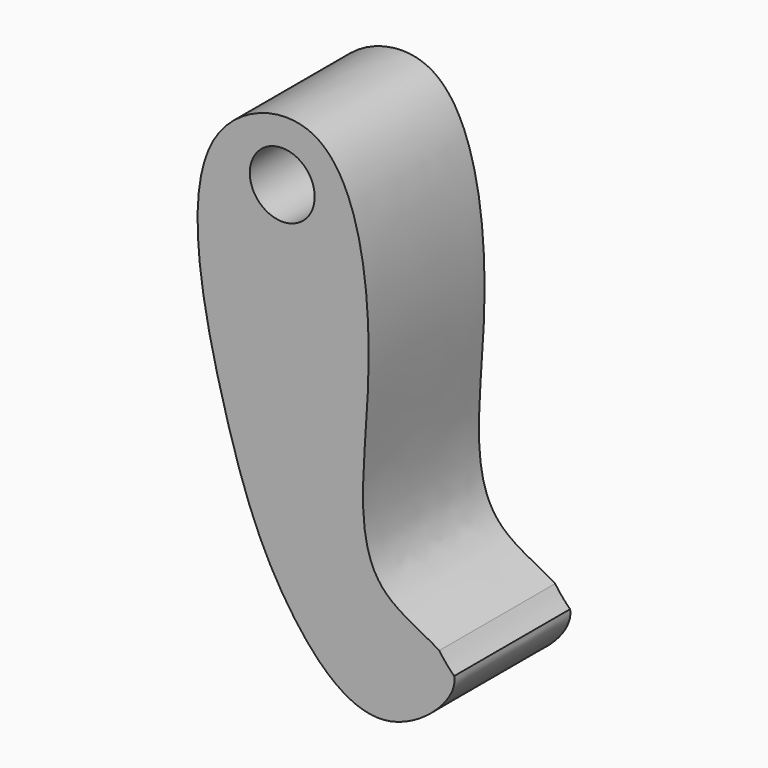
from build123d import *

# Parameters (mm, degrees)
F0_R     = 5.6887082479
F1_DEPTH = 25.4


with BuildPart() as f1:
    # F0 (on Front) → F1 (new body)
    with BuildSketch(Plane.XZ):
        with BuildLine():
            add(Edge.make_bspline(
                [(-13.0839215248, -13.7771912062), (-12.3637471248, -17.5316008011), (-26.4054747869, -30.7147757195), (-44.4811464496, -12.0997744428), (-53.7863967937, 12.6286486059), (-63.5044924073, 57.9441707835), (-31.7029808767, 68.408207312), (-25.5671035922, 27.849781756), (-32.5032799021, -3.8862060779), (-18.5417646628, -8.8477015901), (-15.7050160836, -10.6935714246)],
                knots=[0, 0, 0, 0, 0.0991144354, 0.2115254274, 0.3468992066, 0.5061451617, 0.6135058737, 0.7592677215, 0.9016869369, 0.9677913794, 0.9677913794, 0.9677913794, 0.9677913794], degree=3))
            ThreePointArc((-13.0839215248, -13.7771912062), (-14.4768059286, -12.305368345), (-15.7050160836, -10.6935714246))
        make_face()
        with Locations((-43.2343743742, 52.24153772)):
            Circle(F0_R, mode=Mode.SUBTRACT)
    extrude(amount=F1_DEPTH)


solid = f1.part
